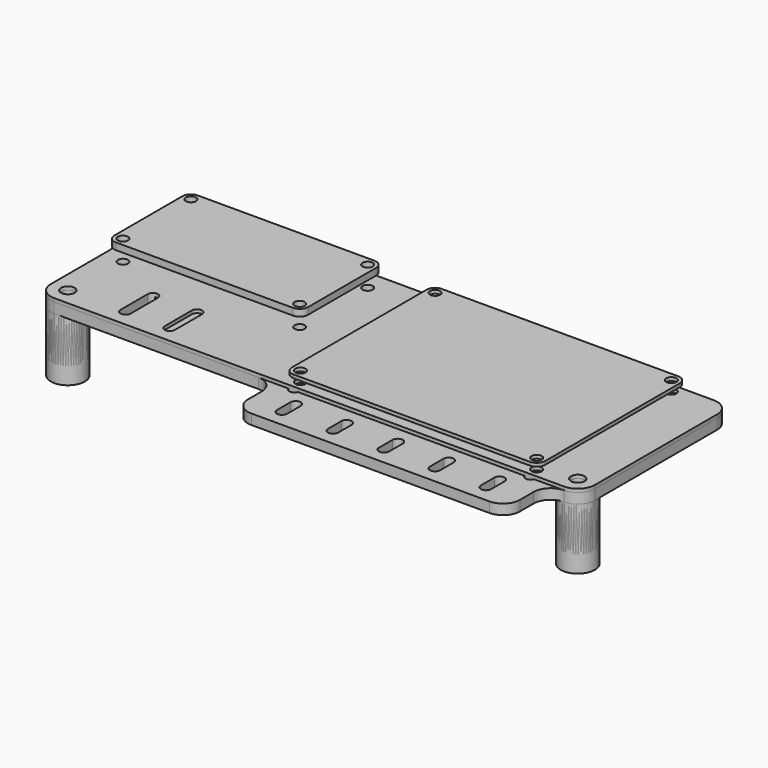
from build123d import *

# Parameters (mm, degrees)
SKETCH_R        = 2
PAD_DEPTH       = 4
SKETCH005_R     = 1.5
HOLE_DEPTH      = 25
SKETCH006_R     = 5
SKETCH006_R_2   = 2
PAD003_DEPTH    = 10
SKETCH007_R     = 5
SKETCH007_R_2   = 4
PAD004_DEPTH    = 3
SKETCH009_R     = 1.5
HOLE001_DEPTH   = 25
POCKET_DEPTH    = 17.001
SKETCH002_R     = 1.5
PAD002_DEPTH    = 1
SKETCH008_R     = 1.5
PAD005_DEPTH    = 2
SKETCH012_R     = 2
PAD006_DEPTH    = 3
SKETCH013_W     = 80
SKETCH013_H     = 3
PAD007_DEPTH    = 15
SKETCH014_R     = 1.5
HOLE002_DEPTH   = 25
SKETCH015_R     = 1.5
HOLE003_DEPTH   = 25
POCKET001_DEPTH = 5
FILLET_R        = 4.99
SKETCH017_R     = 5
SKETCH017_R_2   = 2
PAD008_DEPTH    = 15
SKETCH018_R     = 5
SKETCH018_R_2   = 4
PAD009_DEPTH    = 3


with BuildPart() as v1:
    # Sketch → Pad (new body)
    with BuildSketch(Plane.XY):
        with BuildLine():
            ThreePointArc((-80, 5), (-78.535534, 1.464466), (-75, 0))
            Line((75, 0), (-75, 0))
            ThreePointArc((75, 0), (78.535534, 1.464466), (80, 5))
            Line((80, 50), (80, 5))
            ThreePointArc((80, 50), (78.535534, 53.535534), (75, 55))
            Line((-75, 55), (75, 55))
            ThreePointArc((-75, 55), (-78.535534, 53.535534), (-80, 50))
            Line((-80, 5), (-80, 50))
        make_face()
        with Locations((-75, 5)):
            Circle(SKETCH_R, mode=Mode.SUBTRACT)
        with Locations((75, 5)):
            Circle(SKETCH_R, mode=Mode.SUBTRACT)
    extrude(amount=PAD_DEPTH)

    # Sketch005 (on Face12 of Pad) → Hole (cut)
    with BuildSketch(Plane.XY.offset(4)):
        with Locations((-4.75, 52.2)):
            Circle(SKETCH005_R)
        with Locations((64.75, 52.2)):
            Circle(SKETCH005_R)
        with Locations((64.75, 2.7)):
            Circle(SKETCH005_R)
        with Locations((-4.75, 2.7)):
            Circle(SKETCH005_R)
    extrude(amount=-HOLE_DEPTH, mode=Mode.SUBTRACT)

    # Sketch006 (on Face4 of Hole) → Pad003 (join)
    with BuildSketch(Plane(origin=(0, 0, 0), x_dir=(1, 0, 0), z_dir=(0, 0, -1))):
        with Locations((-75, -5)):
            Circle(SKETCH006_R)
        with Locations((-75, -5)):
            Circle(SKETCH006_R_2, mode=Mode.SUBTRACT)
        with Locations((75, -5)):
            Circle(SKETCH006_R)
        with Locations((75, -5)):
            Circle(SKETCH006_R_2, mode=Mode.SUBTRACT)
    extrude(amount=PAD003_DEPTH)

    # Sketch007 (on Face22 of Pad003) → Pad004 (join)
    with BuildSketch(Plane(origin=(0, 0, -10), x_dir=(1, 0, 0), z_dir=(0, 0, -1))):
        with Locations((75, -5)):
            Circle(SKETCH007_R)
        with Locations((75, -5)):
            Circle(SKETCH007_R_2, mode=Mode.SUBTRACT)
        with Locations((-75, -5)):
            Circle(SKETCH007_R)
        with Locations((-75, -5)):
            Circle(SKETCH007_R_2, mode=Mode.SUBTRACT)
    extrude(amount=PAD004_DEPTH)

    # Sketch009 (on Face5 of Pad004) → Hole001 (cut)
    with BuildSketch(Plane.XY.offset(4)):
        with Locations((-74, 49)):
            Circle(SKETCH009_R)
        with Locations((-22, 49)):
            Circle(SKETCH009_R)
        with Locations((-22, 24)):
            Circle(SKETCH009_R)
        with Locations((-74, 24)):
            Circle(SKETCH009_R)
    extrude(amount=-HOLE001_DEPTH, mode=Mode.SUBTRACT)

    # Sketch010 (on Face5 of Hole001) → Pocket (cut, through all)
    with BuildSketch(Plane.XY.offset(4)):
        with BuildLine():
            ThreePointArc((-56.5, 15), (-58, 16.5), (-59.5, 15))
            Line((-59.5, 15), (-59.5, 5))
            ThreePointArc((-59.5, 5), (-58, 3.5), (-56.5, 5))
            Line((-56.5, 5), (-56.5, 15))
        make_face()
        with BuildLine():
            ThreePointArc((-43.5, 15), (-45, 16.5), (-46.5, 15))
            Line((-46.5, 15), (-46.5, 5))
            ThreePointArc((-46.5, 5), (-45, 3.5), (-43.5, 5))
            Line((-43.5, 5), (-43.5, 15))
        make_face()
    extrude(amount=-POCKET_DEPTH, mode=Mode.SUBTRACT)


with BuildPart() as obj1:
    # Sketch002 → Pad002 (new body)
    with BuildSketch(Plane.XY):
        with BuildLine():
            ThreePointArc((-37.25, 0), (-36.517767, -1.767767), (-34.75, -2.5))
            Line((34.75, -2.5), (-34.75, -2.5))
            ThreePointArc((34.75, -2.5), (36.517767, -1.767767), (37.25, 0))
            Line((37.25, 49.5), (37.25, 0))
            ThreePointArc((37.25, 49.5), (36.517767, 51.267767), (34.75, 52))
            Line((-34.75, 52), (34.75, 52))
            ThreePointArc((-34.75, 52), (-36.517767, 51.267767), (-37.25, 49.5))
            Line((-37.25, 0), (-37.25, 49.5))
        make_face()
        with Locations((-34.75, 49.5)):
            Circle(SKETCH002_R, mode=Mode.SUBTRACT)
        with Locations((34.75, 49.5)):
            Circle(SKETCH002_R, mode=Mode.SUBTRACT)
        with Locations((34.75, 0)):
            Circle(SKETCH002_R, mode=Mode.SUBTRACT)
        with Locations((-34.75, 0)):
            Circle(SKETCH002_R, mode=Mode.SUBTRACT)
    extrude(amount=PAD002_DEPTH)


with BuildPart() as obj1_1:
    # Body001 placement: moved
    add(obj1.part.moved(Location((30, 2.7, 6))))


with BuildPart() as esp:
    # Sketch008 → Pad005 (new body)
    with BuildSketch(Plane.XY):
        with BuildLine():
            ThreePointArc((0, -2.5), (1.767767, -1.767767), (2.5, 0))
            Line((2.5, 25), (2.5, 0))
            ThreePointArc((2.5, 25), (1.767767, 26.767767), (0, 27.5))
            Line((-52, 27.5), (0, 27.5))
            ThreePointArc((-52, 27.5), (-53.767767, 26.767767), (-54.5, 25))
            Line((-54.5, 0), (-54.5, 25))
            ThreePointArc((-54.5, 0), (-53.767767, -1.767767), (-52, -2.5))
            Line((0, -2.5), (-52, -2.5))
        make_face()
        with Locations((-52, 25)):
            Circle(SKETCH008_R, mode=Mode.SUBTRACT)
        with Locations((0, 25)):
            Circle(SKETCH008_R, mode=Mode.SUBTRACT)
        Circle(SKETCH008_R, mode=Mode.SUBTRACT)
        with Locations((-52, 0)):
            Circle(SKETCH008_R, mode=Mode.SUBTRACT)
    extrude(amount=PAD005_DEPTH)


with BuildPart() as esp_1:
    # Body002 placement: moved
    add(esp.part.moved(Location((-22, 24, 8))))


with BuildPart() as v2:
    # Sketch012 → Pad006 (new body)
    with BuildSketch(Plane.XY):
        with BuildLine():
            ThreePointArc((-80, 5), (-78.535534, 1.464466), (-75, 0))
            Line((75, 0), (-75, 0))
            ThreePointArc((75, 0), (78.535534, 1.464466), (80, 5))
            Line((80, 50), (80, 5))
            ThreePointArc((80, 50), (78.535534, 53.535534), (75, 55))
            Line((-75, 55), (75, 55))
            ThreePointArc((-75, 55), (-78.535534, 53.535534), (-80, 50))
            Line((-80, 5), (-80, 50))
        make_face()
        with Locations((-75, 5)):
            Circle(SKETCH012_R, mode=Mode.SUBTRACT)
        with Locations((75, 5)):
            Circle(SKETCH012_R, mode=Mode.SUBTRACT)
    extrude(amount=PAD006_DEPTH)

    # Sketch013 (on Face2 of Pad006) → Pad007 (join)
    with BuildSketch(Plane.XZ):
        with Locations((30, 1.5)):
            Rectangle(SKETCH013_W, SKETCH013_H)
    extrude(amount=PAD007_DEPTH)

    # Sketch014 → Hole002 (cut)
    with BuildSketch(Plane.XY.offset(3)):
        with Locations((-4.75, 50)):
            Circle(SKETCH014_R)
        with Locations((64.75, 50)):
            Circle(SKETCH014_R)
        with Locations((64.75, 0.5)):
            Circle(SKETCH014_R)
        with Locations((-4.75, 0.5)):
            Circle(SKETCH014_R)
    extrude(amount=-HOLE002_DEPTH, mode=Mode.SUBTRACT)

    # Sketch015 (on Face5 of Hole002) → Hole003 (cut)
    with BuildSketch(Plane.XY.offset(3)):
        with Locations((-75, 50)):
            Circle(SKETCH015_R)
        with Locations((-23, 50)):
            Circle(SKETCH015_R)
        with Locations((-23, 25)):
            Circle(SKETCH015_R)
        with Locations((-75, 25)):
            Circle(SKETCH015_R)
    extrude(amount=-HOLE003_DEPTH, mode=Mode.SUBTRACT)

    # Sketch016 (on Face5 of Hole003) → Pocket001 (cut)
    with BuildSketch(Plane.XY.offset(3)):
        with BuildLine():
            ThreePointArc((-57.5, 15), (-59, 16.5), (-60.5, 15))
            Line((-60.5, 15), (-60.5, 5))
            ThreePointArc((-60.5, 5), (-59, 3.5), (-57.5, 5))
            Line((-57.5, 5), (-57.5, 15))
        make_face()
        with BuildLine():
            ThreePointArc((-47.5, 15), (-49, 16.5), (-50.5, 15))
            Line((-50.5, 15), (-50.5, 5))
            ThreePointArc((-50.5, 5), (-49, 3.5), (-47.5, 5))
            Line((-47.5, 5), (-47.5, 15))
        make_face()
        with BuildLine():
            ThreePointArc((-37.5, 15), (-39, 16.5), (-40.5, 15))
            Line((-40.5, 15), (-40.5, 5))
            ThreePointArc((-40.5, 5), (-39, 3.5), (-37.5, 5))
            Line((-37.5, 5), (-37.5, 15))
        make_face()
        with BuildLine():
            ThreePointArc((31.5, -5), (30, -3.5), (28.5, -5))
            Line((28.5, -5), (28.5, -10))
            ThreePointArc((28.5, -10), (30, -11.5), (31.5, -10))
            Line((31.5, -10), (31.5, -5))
        make_face()
        with BuildLine():
            ThreePointArc((16.5, -5), (15, -3.5), (13.5, -5))
            Line((13.5, -5), (13.5, -10))
            ThreePointArc((13.5, -10), (15, -11.5), (16.5, -10))
            Line((16.5, -10), (16.5, -5))
        make_face()
        with BuildLine():
            ThreePointArc((1.5, -5), (0, -3.5), (-1.5, -5))
            Line((-1.5, -5), (-1.5, -10))
            ThreePointArc((-1.5, -10), (0, -11.5), (1.5, -10))
            Line((1.5, -10), (1.5, -5))
        make_face()
        with BuildLine():
            ThreePointArc((46.5, -5), (45, -3.5), (43.5, -5))
            Line((43.5, -5), (43.5, -10))
            ThreePointArc((43.5, -10), (45, -11.5), (46.5, -10))
            Line((46.5, -10), (46.5, -5))
        make_face()
        with BuildLine():
            ThreePointArc((61.5, -5), (60, -3.5), (58.5, -5))
            Line((58.5, -5), (58.5, -10))
            ThreePointArc((58.5, -10), (60, -11.5), (61.5, -10))
            Line((61.5, -10), (61.5, -5))
        make_face()
    extrude(amount=-POCKET001_DEPTH, mode=Mode.SUBTRACT)

    # Fillet
    fillet_edges = [v2.edges().sort_by_distance(p)[0] for p in [
        (-10, 0, 1.5),
        (-10, -15, 1.5),
        (70, 0, 1.5),
        (70, -15, 1.5),
    ]]
    fillet(fillet_edges, radius=FILLET_R)

    # Sketch017 (on Face2 of Fillet) → Pad008 (join)
    with BuildSketch(Plane(origin=(0, 0, 0), x_dir=(1, 0, 0), z_dir=(0, 0, -1))):
        with Locations((-75, -5)):
            Circle(SKETCH017_R)
        with Locations((-75, -5)):
            Circle(SKETCH017_R_2, mode=Mode.SUBTRACT)
        with Locations((75, -5)):
            Circle(SKETCH017_R)
        with Locations((75, -5)):
            Circle(SKETCH017_R_2, mode=Mode.SUBTRACT)
    extrude(amount=PAD008_DEPTH)

    # Sketch018 (on Face40 of Pad008) → Pad009 (join)
    with BuildSketch(Plane(origin=(0, 0, -15), x_dir=(1, 0, 0), z_dir=(0, 0, -1))):
        with Locations((-75, -5)):
            Circle(SKETCH018_R)
        with Locations((-75, -5)):
            Circle(SKETCH018_R_2, mode=Mode.SUBTRACT)
        with Locations((75, -5)):
            Circle(SKETCH018_R)
        with Locations((75, -5)):
            Circle(SKETCH018_R_2, mode=Mode.SUBTRACT)
    extrude(amount=PAD009_DEPTH)


solid = Compound([v1.part, obj1_1.part, esp_1.part, v2.part])
